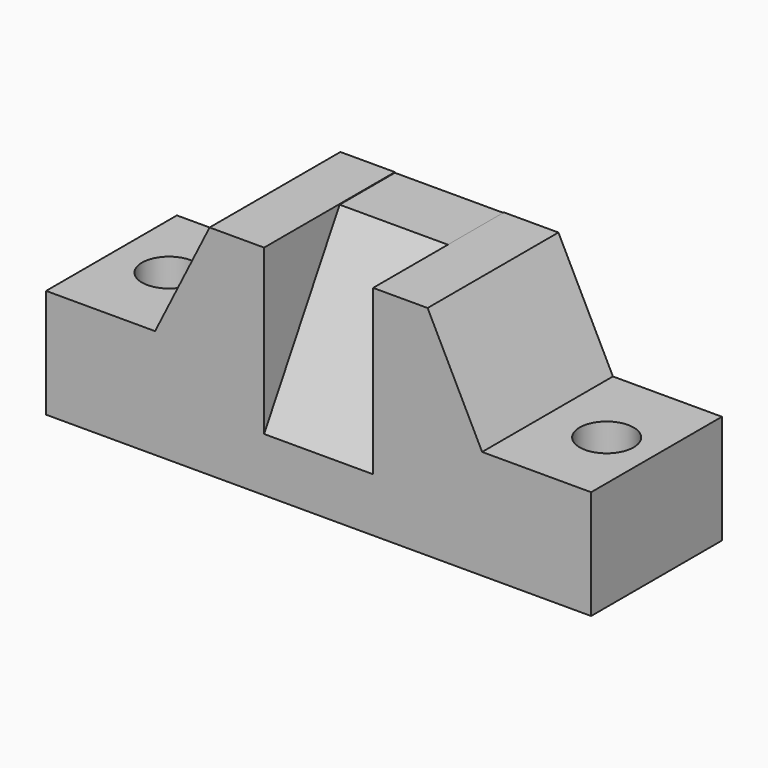
from build123d import *

# Parameters (mm, degrees)
F1_DEPTH = 38.1
F2_R     = 6.29457
F2_R_2   = 6.286061
F3_DEPTH = 82.296
F4_SIZE2 = 21.997045
F4_SIZE  = 38.1


with BuildPart() as f1:
    # F0 (on Front) → F1 (new body)
    with BuildSketch(Plane.XZ):
        Polygon((-62.048577, 25.4), (-62.048577, 0), (64.951423, 0), (64.951423, 25.4), (39.551423, 25.4), (26.851423, 50.8), (14.151423, 50.8), (14.151423, 50.661036), (-11.248577, 50.661036), (-11.248577, 50.8), (-23.948577, 50.8), (-36.648577, 25.4), align=None)
    extrude(amount=F1_DEPTH)

    # F2 (on Top) → F3 (cut)
    with BuildSketch(Plane.XY):
        with Locations((-49.085889, -18.490879)):
            Circle(F2_R)
        with Locations((53.66724, -19.472597)):
            Circle(F2_R_2)
    extrude(amount=F3_DEPTH, mode=Mode.SUBTRACT)

    # F4
    f4_edges = [f1.edges().sort_by_distance(p)[0] for p in [
        (1.451423, -38.1, 50.661036),
    ]]
    chamfer(f4_edges, length=F4_SIZE, length2=F4_SIZE2)


solid = f1.part
